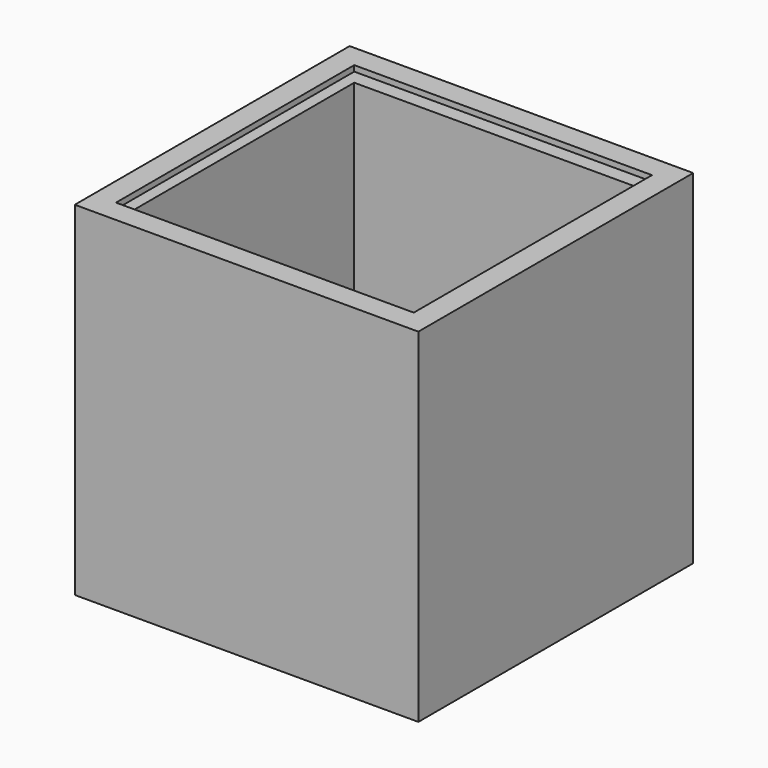
from build123d import *

# Parameters (mm, degrees)
F0_W     = 76.2
F0_H     = 76.2
F1_DEPTH = 76.2
F2_T     = -5.08
F3_W     = 73.6691647935
F3_H     = 2.159
F4_DEPTH = 74.93
F5_W     = 66.04
F5_H     = 5.4402127862
F6_DEPTH = 3.81
F7_W     = 3.81
F7_H     = 2.159
F7_W_2   = 3.8191647935
F8_DEPTH = 1.905


with BuildPart() as f1:
    # F0 (on Top) → F1 (new body)
    with BuildSketch(Plane.XY):
        Rectangle(F0_W, F0_H)
    extrude(amount=F1_DEPTH)

    # F2
    f2_openings = [f1.faces().sort_by_distance(p)[0] for p in [
        (0, 0, 76.2),
    ]]
    offset(amount=F2_T, openings=f2_openings)

    # F3 (on face) → F4 (cut)
    with BuildSketch(Plane(origin=(0, 38.1, 0), x_dir=(-1, 0, 0), z_dir=(0, 1, 0))):
        with Locations((0.0045823967, 73.8505)):
            Rectangle(F3_W, F3_H)
    extrude(amount=-F4_DEPTH, mode=Mode.SUBTRACT)

    # F5 (on face) → F6 (cut)
    with BuildSketch(Plane(origin=(0, -33.02, 0), x_dir=(-1, 0, 0), z_dir=(0, 1, 0))):
        with Locations((0, 72.1777938306)):
            Rectangle(F5_W, F5_H)
    extrude(amount=-F6_DEPTH, mode=Mode.SUBTRACT)

    # F7 (on face) → F8 (join)
    with BuildSketch(Plane(origin=(0, -36.83, 0), x_dir=(-1, 0, 0), z_dir=(0, 1, 0))):
        with Locations((-34.925, 73.8505)):
            Rectangle(F7_W, F7_H)
        with Locations((34.9295823967, 73.8505)):
            Rectangle(F7_W_2, F7_H)
    extrude(amount=F8_DEPTH)


solid = f1.part
